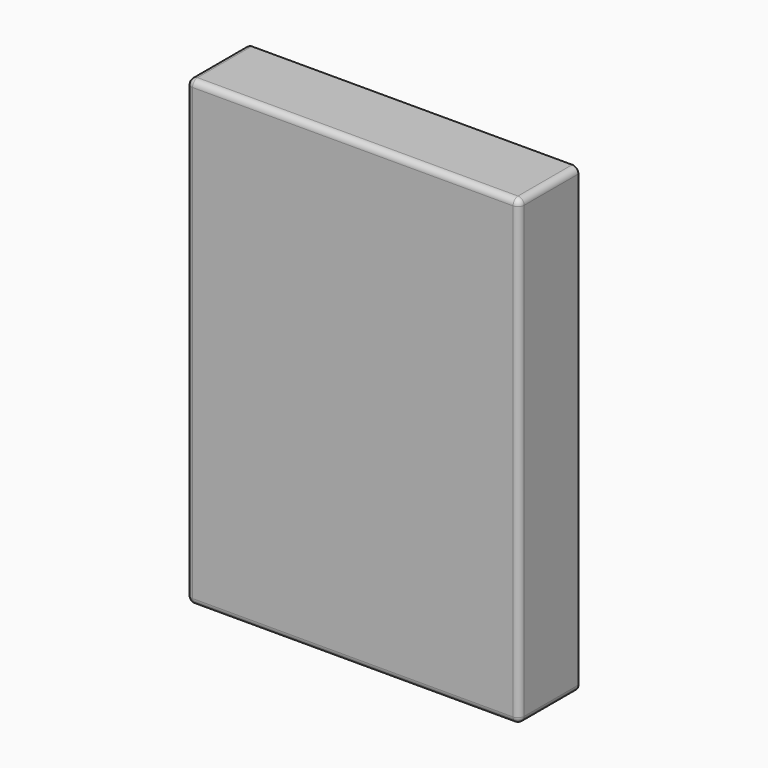
from build123d import *

# Parameters (mm, degrees)
F0_W     = 1371.6
F0_H     = 1905
F1_DEPTH = 304.8
F2_R     = 25.4


with BuildPart() as f1:
    # F0 (on Front) → F1 (new body)
    with BuildSketch(Plane.XZ):
        with Locations((685.8, 952.5)):
            Rectangle(F0_W, F0_H)
    extrude(amount=F1_DEPTH)

    # F2
    f2_edges = [f1.edges().sort_by_distance(p)[0] for p in [
        (0, -304.8, 952.5),
        (685.8, -304.8, 0),
        (1371.6, -304.8, 952.5),
        (685.8, -304.8, 1905),
        (1371.6, -152.4, 0),
        (0, -152.4, 0),
        (0, -152.4, 1905),
        (0, 0, 952.5),
        (1371.6, -152.4, 1905),
    ]]
    fillet(f2_edges, radius=F2_R)


solid = f1.part
